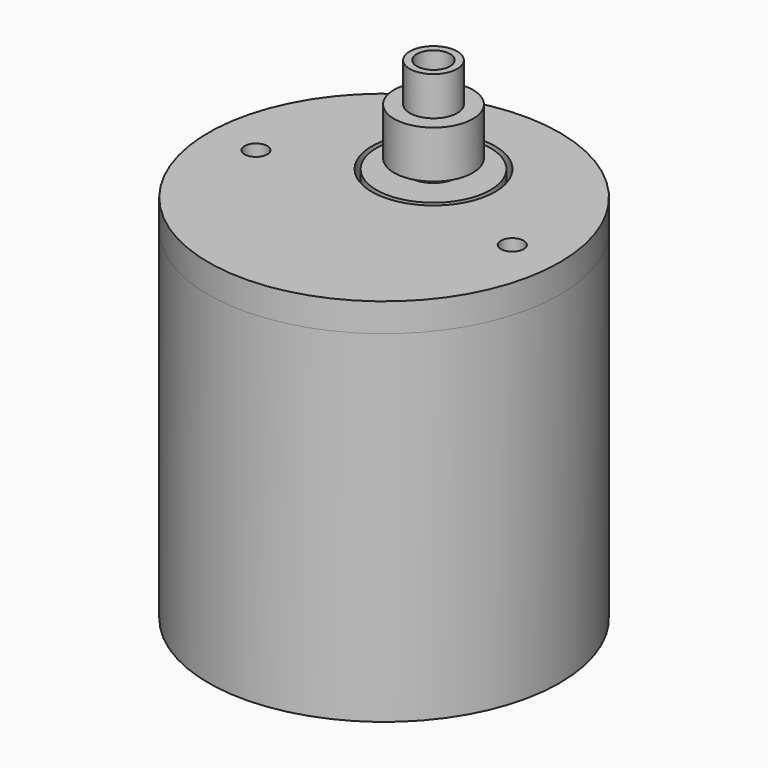
from build123d import *

# Parameters (mm, degrees)
F0_R      = 18.5
F1_DEPTH  = 36
F2_R      = 1.2
F3_DEPTH  = 12
F2_R_2    = 6
F4_DEPTH  = 3
F5_R      = 2.5
F6_DEPTH  = 1
F7_R      = 4.15
F7_R_2    = 2.5
F8_DEPTH  = 5
F9_R      = 2.5
F10_DEPTH = 4.1
F11_R     = 1.75
F12_DEPTH = 3
F13_SIZE  = 1
F14_R     = 18.5
F14_R_2   = 1.2
F14_R_3   = 6.5
F15_DEPTH = 3


with BuildPart() as f1:
    # F0 (on Top) → F1 (new body)
    with BuildSketch(Plane.XY):
        Circle(F0_R)
    extrude(amount=-F1_DEPTH)

    # F2 (on face) → F3 (cut)
    with BuildSketch(Plane.XY):
        with Locations((-13.5, 0)):
            Circle(F2_R)
        with Locations((13.5, 0)):
            Circle(F2_R)
    extrude(amount=-F3_DEPTH, mode=Mode.SUBTRACT)

    # F2 (on face) → F4 (join)
    with BuildSketch(Plane.XY):
        with Locations((0, 6.5)):
            Circle(F2_R_2)
    extrude(amount=F4_DEPTH)

    # F5 (on face) → F6 (join)
    with BuildSketch(Plane.XY.offset(3)):
        with Locations((0, 6.5)):
            Circle(F5_R)
    extrude(amount=F6_DEPTH)

    # F7 (on face) → F8 (join)
    with BuildSketch(Plane.XY.offset(4)):
        with Locations((0, 6.5)):
            Circle(F7_R)
        with Locations((0, 6.5)):
            Circle(F7_R_2, mode=Mode.SUBTRACT)
        with Locations((0, 6.5)):
            Circle(F7_R_2)
    extrude(amount=F8_DEPTH)

    # F9 (on face) → F10 (join)
    with BuildSketch(Plane.XY.offset(9)):
        with Locations((0, 6.5)):
            Circle(F9_R)
    extrude(amount=F10_DEPTH)

    # F11 (on face) → F12 (cut)
    with BuildSketch(Plane.XY.offset(13.1)):
        with Locations((0, 6.5)):
            Circle(F11_R)
    extrude(amount=-F12_DEPTH, mode=Mode.SUBTRACT)

    # F13
    f13_edges = [f1.edges().sort_by_distance(p)[0] for p in [
        (-1.75, 6.5, 10.1),
    ]]
    chamfer(f13_edges, length=F13_SIZE)


with BuildPart() as f15:
    # F14 (on face) → F15 (new body, through all)
    with BuildSketch(Plane.XY):
        Circle(F14_R)
        with Locations((-13.5, 0)):
            Circle(F14_R_2, mode=Mode.SUBTRACT)
        with Locations((0, 6.5)):
            Circle(F14_R_3, mode=Mode.SUBTRACT)
        with Locations((13.5, 0)):
            Circle(F14_R_2, mode=Mode.SUBTRACT)
    extrude(amount=F15_DEPTH)


solid = Compound([f1.part, f15.part])
